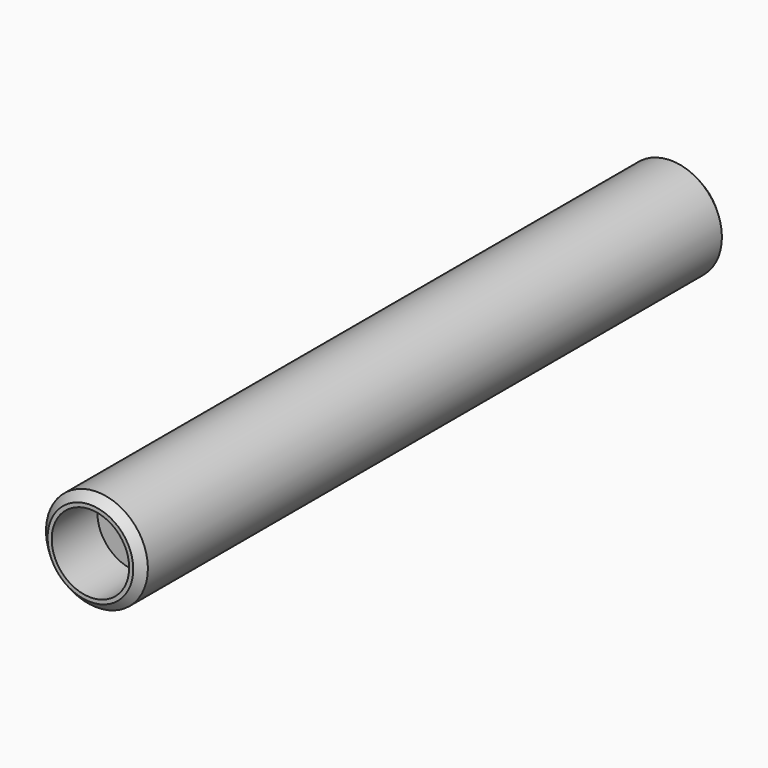
from build123d import *

# Parameters (mm, degrees)
F0_R          = 12.5
F1_DEPTH      = 90
F1_DEPTH_BACK = 90
F2_R          = 9.5
F3_DEPTH      = 14
F4_SIZE       = 2
F5_R          = 9.5
F6_DEPTH      = 14
F7_SIZE       = 2


with BuildPart() as f1:
    # F0 (on Front) → F1 (new body, two sides)
    with BuildSketch(Plane.XZ) as f1_sk:
        Circle(F0_R)
    extrude(amount=F1_DEPTH)
    extrude(f1_sk.sketch, amount=-F1_DEPTH_BACK)

    # F2 (on face) → F3 (cut)
    with BuildSketch(Plane.XZ.offset(90)):
        Circle(F2_R)
    extrude(amount=-F3_DEPTH, mode=Mode.SUBTRACT)

    # F4
    f4_edges = [f1.edges().sort_by_distance(p)[0] for p in [
        (-12.5, -90, 0),
    ]]
    chamfer(f4_edges, length=F4_SIZE)

    # F5 (on face) → F6 (cut)
    with BuildSketch(Plane(origin=(0, 90, 0), x_dir=(-1, 0, 0), z_dir=(0, 1, 0))):
        Circle(F5_R)
    extrude(amount=-F6_DEPTH, mode=Mode.SUBTRACT)

    # F7
    f7_edges = [f1.edges().sort_by_distance(p)[0] for p in [
        (-12.5, 90, 0),
    ]]
    chamfer(f7_edges, length=F7_SIZE)


solid = f1.part
